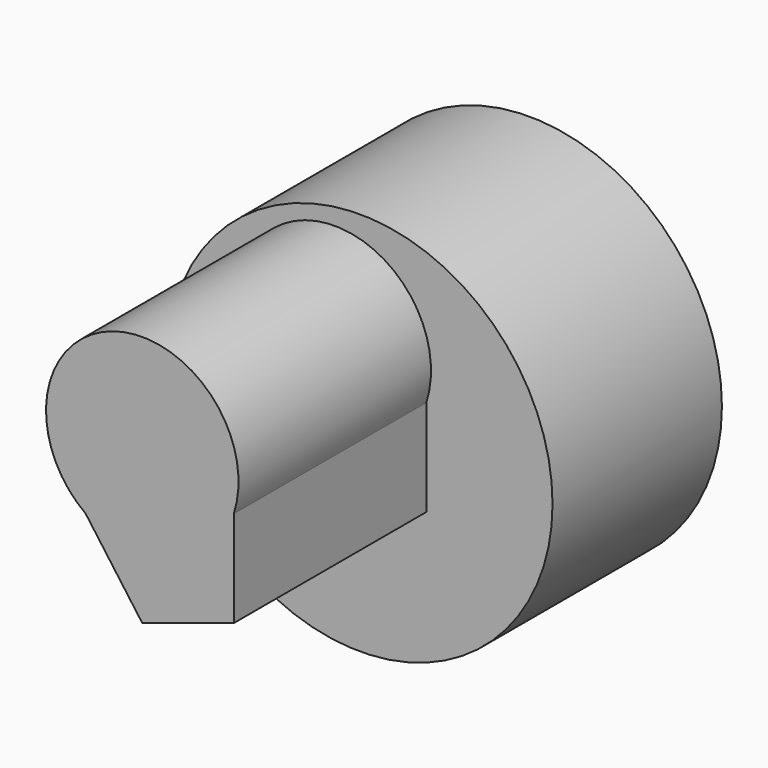
from build123d import *

# Parameters (mm, degrees)
F0_R     = 20
F1_DEPTH = 22
F3_DEPTH = 25
F4_W     = 10
F4_H     = 25


with BuildPart() as f1:
    # F0 (on Front) → F1 (new body)
    with BuildSketch(Plane.XZ):
        Circle(F0_R)
    extrude(amount=F1_DEPTH)

    # F2 (on face) → F3 (join)
    with BuildSketch(Plane.XZ.offset(22)):
        Polygon((6.8819096024, -5), (6.8819096024, 5), (-2.6286555606, 8.0901699437), (-8.5065080835, 0), (-2.6286555606, -8.0901699437), align=None)
    extrude(amount=F3_DEPTH)

    # F4 (on face) → F5 (revolve)
    with BuildSketch(Plane(origin=(2.1266270209, 0, 6.5450849719), x_dir=(0.9510565163, 0, -0.3090169944), z_dir=(0.3090169944, 0, 0.9510565163))):
        with Locations((0, -34.5)):
            Rectangle(F4_W, F4_H)
    revolve(axis=Axis((-2.6286555606, -34.5, 8.0901699437), (0, -1, 0)))


solid = f1.part
